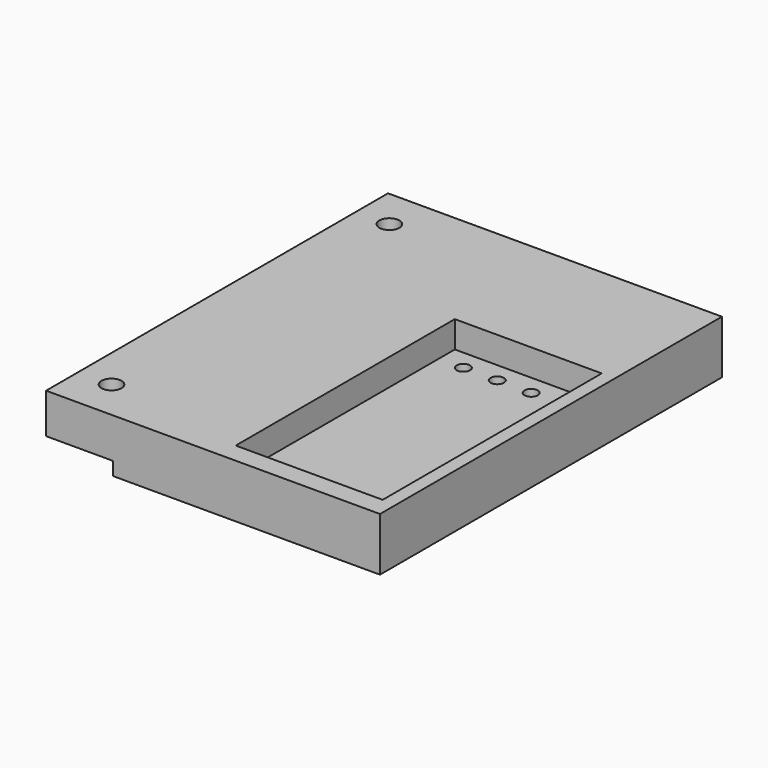
from build123d import *

# Parameters (mm, degrees)
SKETCH_W        = 25
SKETCH_H        = 32
SKETCH_R        = 0.75
SKETCH_R_2      = 0.5
PAD_DEPTH       = 4
SKETCH001_W     = 5
SKETCH001_H     = 32
POCKET_DEPTH    = 1
SKETCH002_W     = 11
SKETCH002_H     = 20.5
POCKET001_DEPTH = 2
SKETCH003_W     = 1
SKETCH003_H     = 12
POCKET002_DEPTH = 1


with BuildPart() as part:
    # Sketch → Pad (new body)
    with BuildSketch(Plane.XY):
        Rectangle(SKETCH_W, SKETCH_H)
        with Locations((-10, 13)):
            Circle(SKETCH_R, mode=Mode.SUBTRACT)
        with Locations((-10, -13)):
            Circle(SKETCH_R, mode=Mode.SUBTRACT)
        with Locations((2.34, 4.5)):
            Circle(SKETCH_R_2, mode=Mode.SUBTRACT)
        with Locations((4.88, 4.5)):
            Circle(SKETCH_R_2, mode=Mode.SUBTRACT)
        with Locations((7.42, 4.5)):
            Circle(SKETCH_R_2, mode=Mode.SUBTRACT)
        with Locations((9.96, 4.5)):
            Circle(SKETCH_R_2, mode=Mode.SUBTRACT)
    extrude(amount=PAD_DEPTH)

    # Sketch001 (on Face11 of Pad) → Pocket (cut)
    with BuildSketch(Plane(origin=(0, 0, 0), x_dir=(1, 0, 0), z_dir=(0, 0, -1))):
        with Locations((-10, 0)):
            Rectangle(SKETCH001_W, SKETCH001_H)
    extrude(amount=-POCKET_DEPTH, mode=Mode.SUBTRACT)

    # Sketch002 (on Face6 of Pocket) → Pocket001 (cut)
    with BuildSketch(Plane.XY.offset(4)):
        with Locations((6, -4.25)):
            Rectangle(SKETCH002_W, SKETCH002_H)
    extrude(amount=-POCKET001_DEPTH, mode=Mode.SUBTRACT)

    # Sketch003 (on Face4 of Pocket001) → Pocket002 (cut)
    with BuildSketch(Plane(origin=(0, 0, 0), x_dir=(1, 0, 0), z_dir=(0, 0, -1))):
        with Locations((2.33, -10)):
            Rectangle(SKETCH003_W, SKETCH003_H)
        with Locations((4.87, -10)):
            Rectangle(SKETCH003_W, SKETCH003_H)
        with Locations((7.41, -10)):
            Rectangle(SKETCH003_W, SKETCH003_H)
        with Locations((9.95, -10)):
            Rectangle(SKETCH003_W, SKETCH003_H)
    extrude(amount=-POCKET002_DEPTH, mode=Mode.SUBTRACT)


solid = part.part
